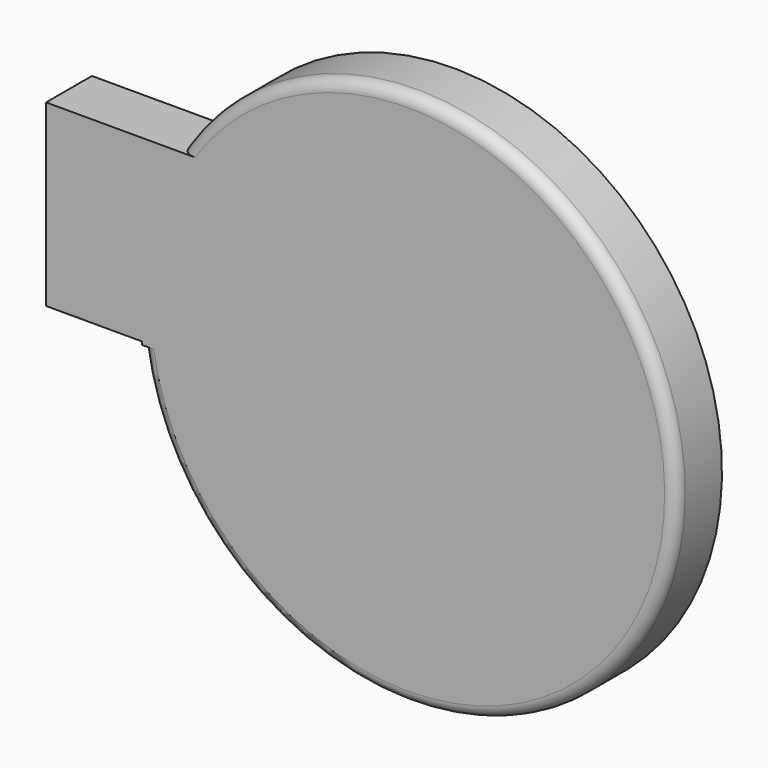
from build123d import *

# Parameters (mm, degrees)
F1_DEPTH = 25.4
F2_R     = 5.08


with BuildPart() as f1:
    # F0 (on Front) → F1 (new body)
    with BuildSketch(Plane.XZ):
        with BuildLine():
            ThreePointArc((-117.7544690086, -17.1285159886), (8.5866430795, -118.6834891301), (118.9937016462, 0))
            ThreePointArc((118.9937016462, 0), (33.1845499452, 114.2728606293), (-100.4849177387, 63.7360364199))
            Line((-100.4849177387, 63.7360364199), (6.5049584955, 63.7360364199))
            Line((6.5049584955, 63.7360364199), (6.5049584955, -17.1285159886))
            Line((6.5049584955, -17.1285159886), (-117.7544690086, -17.1285159886))
        make_face()
        with BuildLine():
            Line((6.5049584955, 63.7360364199), (-100.4849177387, 63.7360364199))
            ThreePointArc((-100.4849177387, 63.7360364199), (-111.8210179878, 40.6885852253), (-117.947368935, 15.7454499072))
            Line((-117.947368935, 15.7454499072), (-117.947368935, -15.7454499071))
            ThreePointArc((-117.947368935, -15.7454499071), (-117.8529478649, -16.437265923), (-117.7544690086, -17.1285159886))
            Line((-117.7544690086, -17.1285159886), (6.5049584955, -17.1285159886))
            Line((6.5049584955, -17.1285159886), (6.5049584955, 63.7360364199))
        make_face()
        with BuildLine():
            ThreePointArc((-117.947368935, 15.7454499072), (-111.8210179878, 40.6885852253), (-100.4849177387, 63.7360364199))
            Line((-100.4849177387, 63.7360364199), (-117.947368935, 63.7360364199))
            Line((-117.947368935, 63.7360364199), (-117.947368935, 15.7454499072))
        make_face()
        with BuildLine():
            Line((-117.947368935, -17.1285159886), (-117.7544690086, -17.1285159886))
            ThreePointArc((-117.7544690086, -17.1285159886), (-117.8529478649, -16.437265923), (-117.947368935, -15.7454499071))
            Line((-117.947368935, -15.7454499071), (-117.947368935, -17.1285159886))
        make_face()
        with BuildLine():
            Line((-117.947368935, -15.7454499071), (-117.947368935, 15.7454499072))
            ThreePointArc((-117.947368935, 15.7454499072), (-118.9937016462, 0), (-117.947368935, -15.7454499071))
        make_face()
        with BuildLine():
            ThreePointArc((-117.947368935, -15.7454499071), (-118.9937016462, 0), (-117.947368935, 15.7454499072))
            Line((-117.947368935, 15.7454499072), (-117.947368935, 63.7360364199))
            Line((-117.947368935, 63.7360364199), (-160.39095819, 63.7360364199))
            Line((-160.39095819, 63.7360364199), (-160.39095819, -15.7454499071))
            Line((-160.39095819, -15.7454499071), (-117.947368935, -15.7454499071))
        make_face()
        with BuildLine():
            ThreePointArc((-117.7544690086, -17.1285159886), (8.5866430795, -118.6834891301), (118.9937016462, 0))
            ThreePointArc((118.9937016462, 0), (33.1845499452, 114.2728606293), (-100.4849177387, 63.7360364199))
            Line((-100.4849177387, 63.7360364199), (6.5049584955, 63.7360364199))
            Line((6.5049584955, 63.7360364199), (6.5049584955, -17.1285159886))
            Line((6.5049584955, -17.1285159886), (-117.7544690086, -17.1285159886))
        make_face()
    extrude(amount=F1_DEPTH)

    # F2
    f2_edges = [f1.edges().sort_by_distance(p)[0] for p in [
        (116.369568, -25.4, -24.852054),
    ]]
    fillet(f2_edges, radius=F2_R)


solid = f1.part
